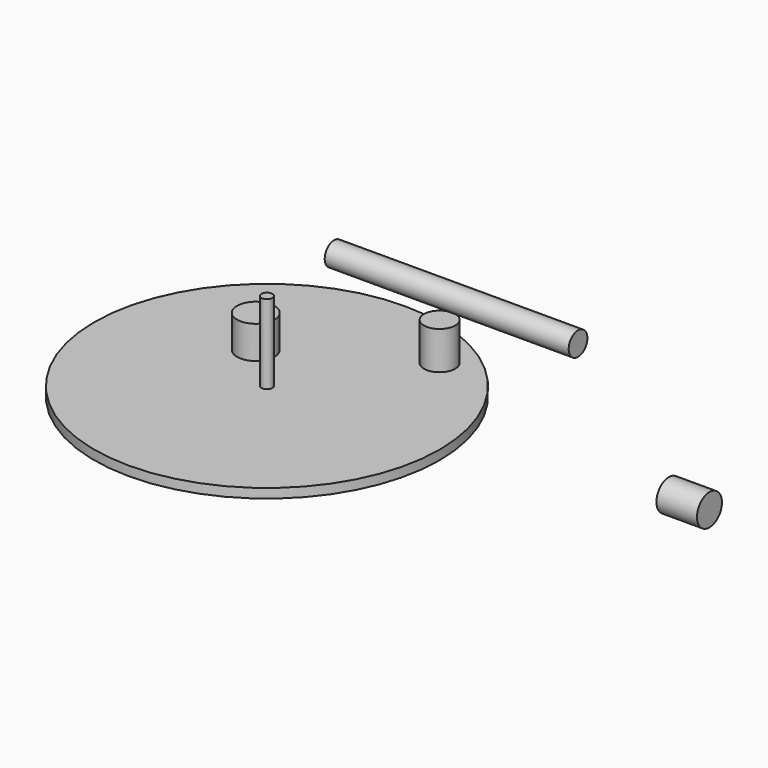
from build123d import *

# Parameters (mm, degrees)
F0_R      = 15.24
F1_DEPTH  = 34.29
F2_W      = 76.2
F2_H      = 43.124175
F3_DEPTH  = 2.286
F4_R      = 140.581633
F5_DEPTH  = 7.62
F6_R      = 9.525
F7_DEPTH  = 198.628
F9_R      = 12.7
F10_DEPTH = 33.02
F11_R     = 12.7
F12_DEPTH = 30.988
F8_R      = 4.48449
F13_DEPTH = 64.516


with BuildPart() as f1:
    # F0 (on Top) → F1 (new body)
    with BuildSketch(Plane.XY):
        with Locations((-22.542197, 9.784274)):
            Circle(F0_R)
    extrude(amount=F1_DEPTH)


with BuildPart() as f3:
    # F2 (on Top) → F3 (new body)
    with BuildSketch(Plane.XY):
        with Locations((38.4693, 9.905269)):
            Rectangle(F2_W, F2_H)
    extrude(amount=F3_DEPTH)


with BuildPart() as f5:
    # F4 (on Top) → F5 (new body)
    with BuildSketch(Plane.XY):
        with Locations((13.910335, -24.432853)):
            Circle(F4_R)
    extrude(amount=F5_DEPTH)

    # F11 (on face) → F12 (join)
    with BuildSketch(Plane.XY.offset(7.62)):
        with Locations((79.962857, 68.748347)):
            Circle(F11_R)
    extrude(amount=F12_DEPTH)

    # F8 (on face) → F13 (join)
    with BuildSketch(Plane.XY.offset(7.62)):
        with Locations((13.910335, -24.432853)):
            Circle(F8_R)
    extrude(amount=F13_DEPTH)


with BuildPart() as f7:
    # F6 (on Right) → F7 (new body)
    with BuildSketch(Plane.YZ):
        with Locations((61.308052, 63.159451)):
            Circle(F6_R)
    extrude(amount=F7_DEPTH)


with BuildPart() as f10:
    # F9 (on face) → F10 (new body)
    with BuildSketch(Plane(origin=(0, 0, 0), x_dir=(0, -1, 0), z_dir=(-1, 0, 0))):
        with Locations((-402.088284, -248.316705)):
            Circle(F9_R)
    extrude(amount=-F10_DEPTH)


solid = Compound([f1.part, f3.part, f5.part, f7.part, f10.part])
